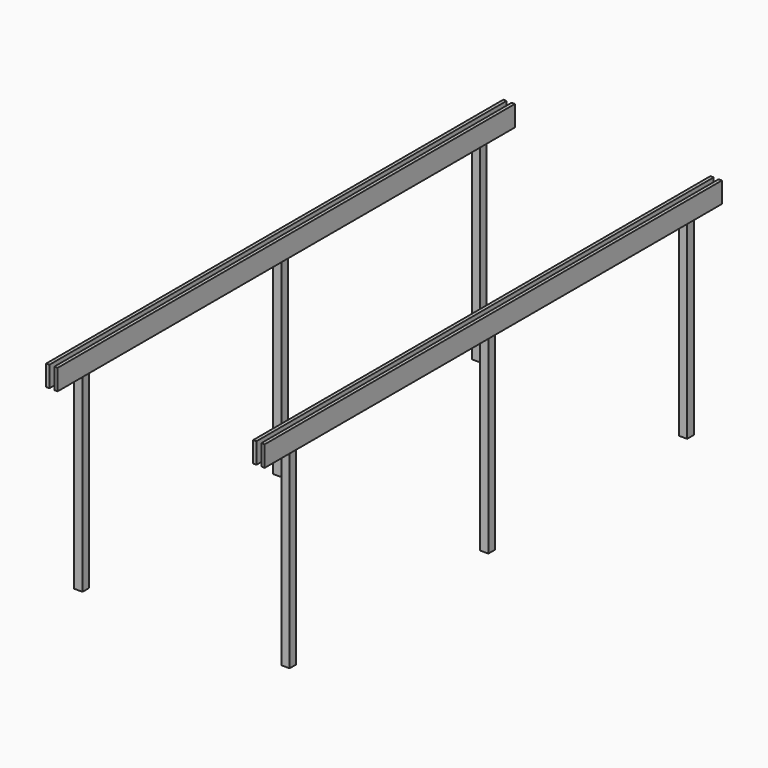
from build123d import *

# Parameters (mm, degrees)
F2_W          = 100
F2_H          = 100
F3_DEPTH      = 2500
F4_W          = 20
F4_H          = 200
F5_DEPTH      = 6100.001
F7_DEPTH      = 400
F7_DEPTH_BACK = 6500
F6_W          = 40
F6_H          = 250


with BuildPart() as f3:
    # F2 (on Top) → F3 (new body)
    with BuildSketch(Plane.XY):
        with Locations((-18.1580890232, -52.2396657616)):
            Rectangle(F2_W, F2_H)
    extrude(amount=F3_DEPTH)


with BuildPart() as f3b:
    # F2 (on Top) → F3, piece 2 (new body)
    with BuildSketch(Plane.XY):
        with Locations((-18.1580890232, 2947.7603342384)):
            Rectangle(F2_W, F2_H)
    extrude(amount=F3_DEPTH)


with BuildPart() as f3c:
    # F2 (on Top) → F3, piece 3 (new body)
    with BuildSketch(Plane.XY):
        with Locations((-18.1580890232, 5947.7603342384)):
            Rectangle(F2_W, F2_H)
    extrude(amount=F3_DEPTH)


with BuildPart() as f3d:
    # F2 (on Top) → F3, piece 4 (new body)
    with BuildSketch(Plane.XY):
        with Locations((2481.8419109768, 2947.7603342384)):
            Rectangle(F2_W, F2_H)
    extrude(amount=F3_DEPTH)


with BuildPart() as f3e:
    # F2 (on Top) → F3, piece 5 (new body)
    with BuildSketch(Plane.XY):
        with Locations((2481.8419109768, -52.2396657616)):
            Rectangle(F2_W, F2_H)
    extrude(amount=F3_DEPTH)


with BuildPart() as f3f:
    # F2 (on Top) → F3, piece 6 (new body)
    with BuildSketch(Plane.XY):
        with Locations((2481.8419109768, 5947.7603342384)):
            Rectangle(F2_W, F2_H)
    extrude(amount=F3_DEPTH)


with BuildPart() as f5_tool:
    # F4 (on face) → F5 (new body, through all)
    with BuildSketch(Plane.XZ.offset(102.2396657616)):
        with Locations((-58.1580890232, 2400)):
            Rectangle(F4_W, F4_H)
        with Locations((21.8419109768, 2400)):
            Rectangle(F4_W, F4_H)
        with Locations((2441.8419109768, 2400)):
            Rectangle(F4_W, F4_H)
        with Locations((2521.8419109768, 2400)):
            Rectangle(F4_W, F4_H)
    extrude(amount=-F5_DEPTH)


with BuildPart() as f3_1:
    add(f3.part)

    # F5: cut by f5_tool
    add(f5_tool.part, mode=Mode.SUBTRACT)


with BuildPart() as f3b_1:
    add(f3b.part)

    # F5: cut by f5_tool
    add(f5_tool.part, mode=Mode.SUBTRACT)


with BuildPart() as f3c_1:
    add(f3c.part)

    # F5: cut by f5_tool
    add(f5_tool.part, mode=Mode.SUBTRACT)


with BuildPart() as f3d_1:
    add(f3d.part)

    # F5: cut by f5_tool
    add(f5_tool.part, mode=Mode.SUBTRACT)


with BuildPart() as f3e_1:
    add(f3e.part)

    # F5: cut by f5_tool
    add(f5_tool.part, mode=Mode.SUBTRACT)


with BuildPart() as f3f_1:
    add(f3f.part)

    # F5: cut by f5_tool
    add(f5_tool.part, mode=Mode.SUBTRACT)


with BuildPart() as f7:
    # F6 (on face) → F7 (new body, two sides)
    with BuildSketch(Plane.XZ.offset(102.2396657616)) as f7_sk:
        Polygon((2451.8419109768, 2300), (2451.8419109768, 2500), (2451.8419109768, 2550), (2411.8419109768, 2550), (2411.8419109768, 2300), (2431.8419109768, 2300), align=None)
    extrude(amount=F7_DEPTH)
    extrude(f7_sk.sketch, amount=-F7_DEPTH_BACK)


with BuildPart() as f7b:
    # F6 (on face) → F7, piece 2 (new body, two sides)
    with BuildSketch(Plane.XZ.offset(102.2396657616)) as f7_2_sk:
        Polygon((2511.8419109768, 2500), (2511.8419109768, 2300), (2531.8419109768, 2300), (2551.8419109768, 2300), (2551.8419109768, 2550), (2511.8419109768, 2550), align=None)
    extrude(amount=F7_DEPTH)
    extrude(f7_2_sk.sketch, amount=-F7_DEPTH_BACK)


with BuildPart() as f7c:
    # F6 (on face) → F7, piece 3 (new body, two sides)
    with BuildSketch(Plane.XZ.offset(102.2396657616)) as f7_3_sk:
        with Locations((-68.1580890232, 2425)):
            Rectangle(F6_W, F6_H)
    extrude(amount=F7_DEPTH)
    extrude(f7_3_sk.sketch, amount=-F7_DEPTH_BACK)


with BuildPart() as f7d:
    # F6 (on face) → F7, piece 4 (new body, two sides)
    with BuildSketch(Plane.XZ.offset(102.2396657616)) as f7_4_sk:
        with Locations((31.8419109768, 2425)):
            Rectangle(F6_W, F6_H)
    extrude(amount=F7_DEPTH)
    extrude(f7_4_sk.sketch, amount=-F7_DEPTH_BACK)


solid = Compound([f3_1.part, f3b_1.part, f3c_1.part, f3d_1.part, f3e_1.part, f3f_1.part, f7.part, f7b.part, f7c.part, f7d.part])
